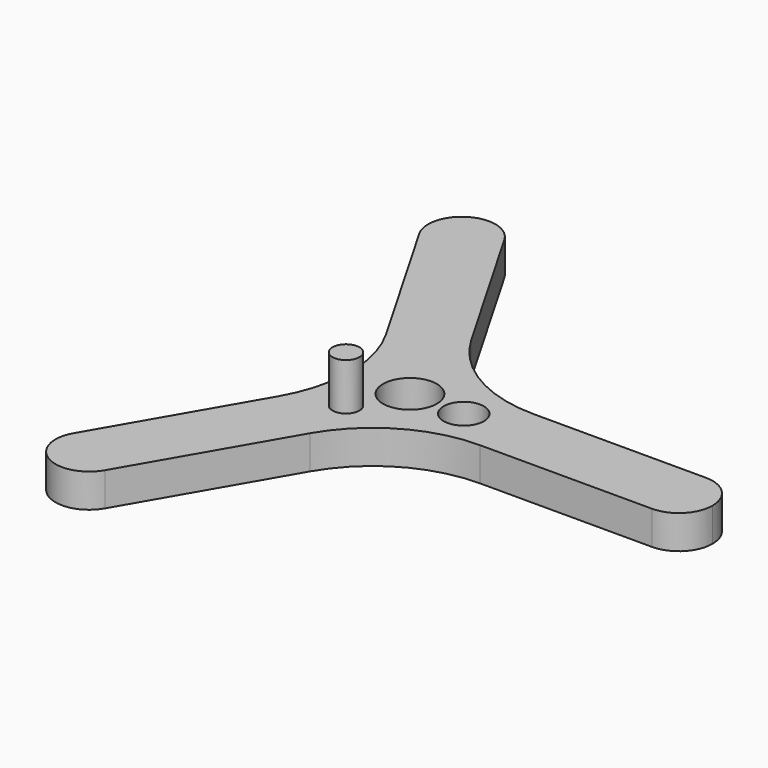
from build123d import *

# Parameters (mm, degrees)
F1_DEPTH = 2.5
F3_R     = 10
F4_D     = 4
F5_R     = 1
F6_DEPTH = 6
F7_R     = 1.5
F8_DEPTH = 7


with BuildPart() as f1:
    # F0 (on Top) → F1 (new body)
    with BuildSketch(Plane.XY):
        with BuildLine():
            ThreePointArc((20, -2.5), (21.767766953, -1.767766953), (22.5, 0))
            ThreePointArc((22.5, 0), (21.767766953, 1.767766953), (20, 2.5))
            ThreePointArc((20, 2.5), (18.232233047, 1.767766953), (17.5, 0))
            ThreePointArc((17.5, 0), (18.232233047, -1.767766953), (20, -2.5))
        make_face()
        with BuildLine():
            ThreePointArc((17.5, 0), (18.232233047, 1.767766953), (20, 2.5))
            Line((20, 2.5), (1.443375673, 2.5))
            Line((1.443375673, 2.5), (2.1650635095, 1.25))
            ThreePointArc((2.1650635095, 1.25), (2.4148145657, 0.6470476128), (2.5, 0))
            Line((2.5, 0), (17.5, 0))
        make_face()
        with BuildLine():
            Line((1.443375673, -2.5), (20, -2.5))
            ThreePointArc((20, -2.5), (18.232233047, -1.767766953), (17.5, 0))
            Line((17.5, 0), (2.5, 0))
            ThreePointArc((2.5, 0), (2.4148145657, -0.6470476128), (2.1650635095, -1.25))
            Line((2.1650635095, -1.25), (1.443375673, -2.5))
        make_face()
        with BuildLine():
            Line((2.1650635095, 1.25), (1.443375673, 2.5))
            Line((1.443375673, 2.5), (0, 2.5))
            ThreePointArc((0, 2.5), (1.25, 2.1650635095), (2.1650635095, 1.25))
        make_face()
        with BuildLine():
            Line((0, 2.5), (1.443375673, 2.5))
            Line((1.443375673, 2.5), (-7.8349364905, 18.5705080757))
            ThreePointArc((-7.8349364905, 18.5705080757), (-7.5851854343, 17.9675556884), (-7.5, 17.3205080757))
            ThreePointArc((-7.5, 17.3205080757), (-7.8349364905, 16.0705080757), (-8.75, 15.1554445662))
            Line((-8.75, 15.1554445662), (-1.25, 2.1650635095))
            ThreePointArc((-1.25, 2.1650635095), (-0.6470476128, 2.4148145657), (0, 2.5))
        make_face()
        with BuildLine():
            Line((-7.8349364905, -18.5705080757), (1.443375673, -2.5))
            Line((1.443375673, -2.5), (0, -2.5))
            ThreePointArc((0, -2.5), (-0.6470476128, -2.4148145657), (-1.25, -2.1650635095))
            Line((-1.25, -2.1650635095), (-8.75, -15.1554445662))
            ThreePointArc((-8.75, -15.1554445662), (-7.8349364905, -16.0705080757), (-7.5, -17.3205080757))
            ThreePointArc((-7.5, -17.3205080757), (-7.5851854343, -17.9675556884), (-7.8349364905, -18.5705080757))
        make_face()
        with BuildLine():
            Line((0, -2.5), (1.443375673, -2.5))
            Line((1.443375673, -2.5), (2.1650635095, -1.25))
            ThreePointArc((2.1650635095, -1.25), (1.25, -2.1650635095), (0, -2.5))
        make_face()
        with BuildLine():
            ThreePointArc((-7.5, 17.3205080757), (-7.5851854343, 17.9675556884), (-7.8349364905, 18.5705080757))
            ThreePointArc((-7.8349364905, 18.5705080757), (-11.25, 19.4855715851), (-12.1650635095, 16.0705080757))
            ThreePointArc((-12.1650635095, 16.0705080757), (-10.6470476128, 14.90569351), (-8.75, 15.1554445662))
            ThreePointArc((-8.75, 15.1554445662), (-7.8349364905, 16.0705080757), (-7.5, 17.3205080757))
        make_face()
        with BuildLine():
            ThreePointArc((-12.1650635095, -16.0705080757), (-11.25, -19.4855715851), (-7.8349364905, -18.5705080757))
            ThreePointArc((-7.8349364905, -18.5705080757), (-7.5851854343, -17.9675556884), (-7.5, -17.3205080757))
            ThreePointArc((-7.5, -17.3205080757), (-7.8349364905, -16.0705080757), (-8.75, -15.1554445662))
            ThreePointArc((-8.75, -15.1554445662), (-10.6470476128, -14.90569351), (-12.1650635095, -16.0705080757))
        make_face()
        with BuildLine():
            ThreePointArc((-2.1650635095, 1.25), (-1.767766953, 1.767766953), (-1.25, 2.1650635095))
            Line((-1.25, 2.1650635095), (-8.75, 15.1554445662))
            ThreePointArc((-8.75, 15.1554445662), (-10.6470476128, 14.90569351), (-12.1650635095, 16.0705080757))
            Line((-12.1650635095, 16.0705080757), (-2.8867513459, 0))
            Line((-2.8867513459, 0), (-2.1650635095, 1.25))
        make_face()
        with BuildLine():
            Line((-8.75, -15.1554445662), (-1.25, -2.1650635095))
            ThreePointArc((-1.25, -2.1650635095), (-1.767766953, -1.767766953), (-2.1650635095, -1.25))
            Line((-2.1650635095, -1.25), (-2.8867513459, 0))
            Line((-2.8867513459, 0), (-12.1650635095, -16.0705080757))
            ThreePointArc((-12.1650635095, -16.0705080757), (-10.6470476128, -14.90569351), (-8.75, -15.1554445662))
        make_face()
        with BuildLine():
            ThreePointArc((-2.1650635095, -1.25), (-2.5, 0), (-2.1650635095, 1.25))
            Line((-2.1650635095, 1.25), (-2.8867513459, 0))
            Line((-2.8867513459, 0), (-2.1650635095, -1.25))
        make_face()
        with BuildLine():
            Line((-1.25, -2.1650635095), (0, 0))
            Line((0, 0), (-1.25, 2.1650635095))
            ThreePointArc((-1.25, 2.1650635095), (-1.767766953, 1.767766953), (-2.1650635095, 1.25))
            ThreePointArc((-2.1650635095, 1.25), (-2.5, 0), (-2.1650635095, -1.25))
            ThreePointArc((-2.1650635095, -1.25), (-1.767766953, -1.767766953), (-1.25, -2.1650635095))
        make_face()
        with BuildLine():
            Line((0, 0), (2.5, 0))
            ThreePointArc((2.5, 0), (2.4148145657, 0.6470476128), (2.1650635095, 1.25))
            ThreePointArc((2.1650635095, 1.25), (1.25, 2.1650635095), (0, 2.5))
            ThreePointArc((0, 2.5), (-0.6470476128, 2.4148145657), (-1.25, 2.1650635095))
            Line((-1.25, 2.1650635095), (0, 0))
        make_face()
        with BuildLine():
            ThreePointArc((2.1650635095, -1.25), (2.4148145657, -0.6470476128), (2.5, 0))
            Line((2.5, 0), (0, 0))
            Line((0, 0), (-1.25, -2.1650635095))
            ThreePointArc((-1.25, -2.1650635095), (-0.6470476128, -2.4148145657), (0, -2.5))
            ThreePointArc((0, -2.5), (1.25, -2.1650635095), (2.1650635095, -1.25))
        make_face()
    extrude(amount=F1_DEPTH)

    # F3
    f3_edges = [f1.edges().sort_by_distance(p)[0] for p in [
        (1.443376, -2.5, 1.25),
        (-2.886751, 0, 1.25),
        (1.443376, 2.5, 1.25),
    ]]
    fillet(f3_edges, radius=F3_R)

    # F4 (through all)
    with Locations(Plane(origin=(0, 0, 0), x_dir=(1, 0, 0), z_dir=(0, 0, -1))):
        with Locations((0, 0)):
            Hole(F4_D / 2)

    # F5 (on Top) → F6 (join)
    with BuildSketch(Plane.XY):
        with Locations((-1.9745181319, -3.478689142)):
            Circle(F5_R)
    extrude(amount=F6_DEPTH)

    # F7 (on Top) → F8 (cut)
    with BuildSketch(Plane.XY):
        with Locations((4, 0)):
            Circle(F7_R)
    extrude(amount=F8_DEPTH, mode=Mode.SUBTRACT)


solid = f1.part
